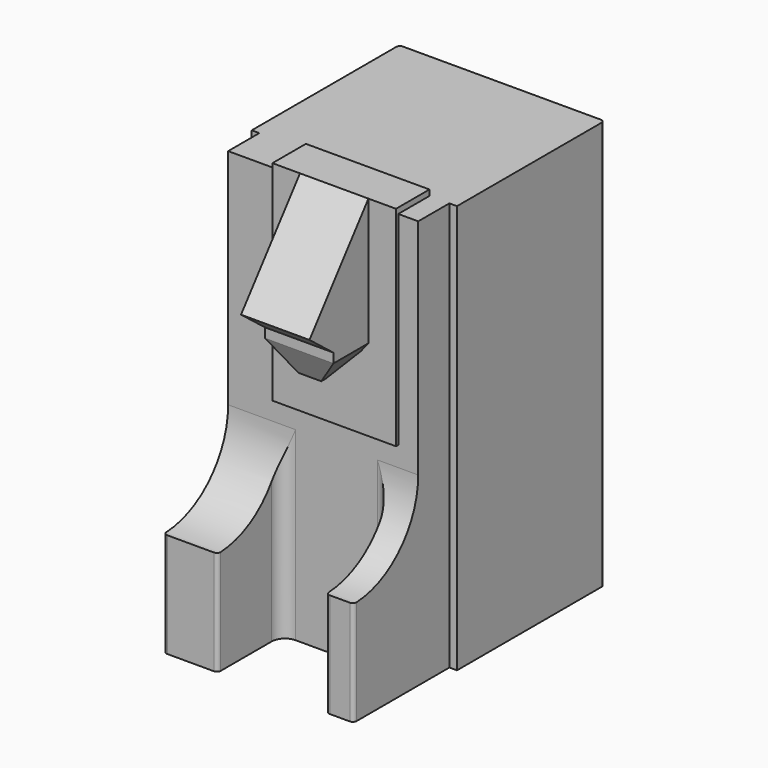
from build123d import *

# Parameters (mm, degrees)
PAD_DEPTH       = 215
POCKET_DEPTH    = 104.001
SKETCH003_W     = 65
SKETCH003_H     = 110
PAD002_DEPTH    = 22
PAD003_DEPTH    = 18
PAD004_DEPTH    = 23
POCKET001_DEPTH = 79.001


with BuildPart() as part:
    # Sketch → Pad (new body)
    with BuildSketch(Plane.XY):
        with BuildLine():
            Line((-54, 95), (-54, 0))
            Line((-54, 0), (-50, 0))
            Line((-50, 0), (-50, -61))
            ThreePointArc((-50, -61), (-49.4142135624, -62.4142135624), (-48, -63))
            Line((-48, -63), (-23.5, -63))
            ThreePointArc((-23.5, -63), (-22.0857864376, -62.4142135624), (-21.5, -61))
            Line((-21.5, -61), (-21.5, -27.5))
            ThreePointArc((-14.5, -20.5), (-19.4497474683, -22.5502525317), (-21.5, -27.5))
            Line((-14.5, -20.5), (28.5, -20.5))
            ThreePointArc((35.5, -27.5), (33.4497474683, -22.5502525317), (28.5, -20.5))
            Line((35.5, -27.5), (35.5, -61))
            ThreePointArc((35.5, -61), (36.0857864376, -62.4142135624), (37.5, -63))
            Line((37.5, -63), (48, -63))
            ThreePointArc((48, -63), (49.4142135624, -62.4142135624), (50, -61))
            Line((50, -61), (50, 0))
            Line((50, 0), (54, 0))
            Line((54, 0), (54, 95))
            ThreePointArc((54, 95), (53.4142135624, 96.4142135624), (52, 97))
            Line((52, 97), (-52, 97))
            ThreePointArc((-52, 97), (-53.4142135624, 96.4142135624), (-54, 95))
        make_face()
    extrude(amount=PAD_DEPTH)

    # Sketch001 (on DatumPlane) → Pocket (cut, through all)
    with BuildSketch(Plane.YZ.offset(50)):
        with BuildLine():
            Line((-20.5, 220), (-20.5, 97.5))
            ThreePointArc((-63, 55), (-32.9479617996, 67.4479617996), (-20.5, 97.5))
            Line((-63, 55), (-68, 55))
            Line((-68, 55), (-68, 220))
            Line((-68, 220), (-20.5, 220))
        make_face()
    extrude(amount=-POCKET_DEPTH, mode=Mode.SUBTRACT)

    # Sketch003 (on DatumPlane) → Pad002 (join)
    with BuildSketch(Plane.XZ):
        with Locations((7, 163)):
            Rectangle(SKETCH003_W, SKETCH003_H)
    extrude(amount=PAD002_DEPTH)

    # Sketch004 (on DatumPlane) → Pad003 (join, symmetric)
    with BuildSketch(Plane.YZ.offset(7)):
        Polygon((-22, 218), (-60.7693471681, 168.301532014), (-45, 156), (-22, 156), align=None)
    extrude(amount=PAD003_DEPTH, both=True)

    # Sketch005 (on DatumPlane) → Pad004 (join)
    with BuildSketch(Plane.XZ.offset(22)):
        Polygon((13, 136), (1, 136), (-11, 151), (-11, 156), (25, 156), (25, 151), align=None)
    extrude(amount=PAD004_DEPTH)

    # Sketch007 (on DatumPlane) → Pocket001 (cut, through all)
    with BuildSketch(Plane.YZ.offset(25)):
        Polygon((-45, 151), (-38, 136), (-35, 136), (-22, 146), (-22, 135), (-46, 135), (-46, 151), align=None)
    extrude(amount=-POCKET001_DEPTH, mode=Mode.SUBTRACT)


solid = part.part
